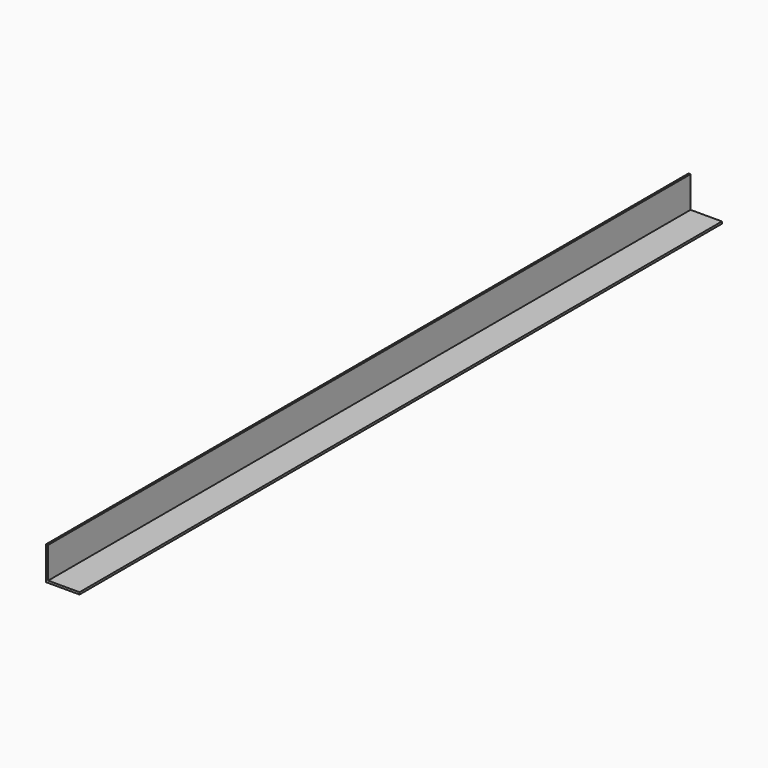
from build123d import *

# Parameters (mm, degrees)
F1_DEPTH = 203.2
F2_DEPTH = 609.6


with BuildPart() as f1:
    # F0 (on Front) → F1 (new body)
    with BuildSketch(Plane.XZ):
        Polygon((0, 25.4), (0, 0), (25.4, 0), (25.4, 1.5875), (1.5875, 1.5875), (1.5875, 25.4), align=None)
    extrude(amount=F1_DEPTH)


with BuildPart() as f2:
    # F0 (on Front) → F2 (new body)
    with BuildSketch(Plane.XZ):
        Polygon((0, 25.4), (0, 0), (25.4, 0), (25.4, 1.5875), (1.5875, 1.5875), (1.5875, 25.4), align=None)
    extrude(amount=F2_DEPTH)


solid = Compound([f1.part, f2.part])
